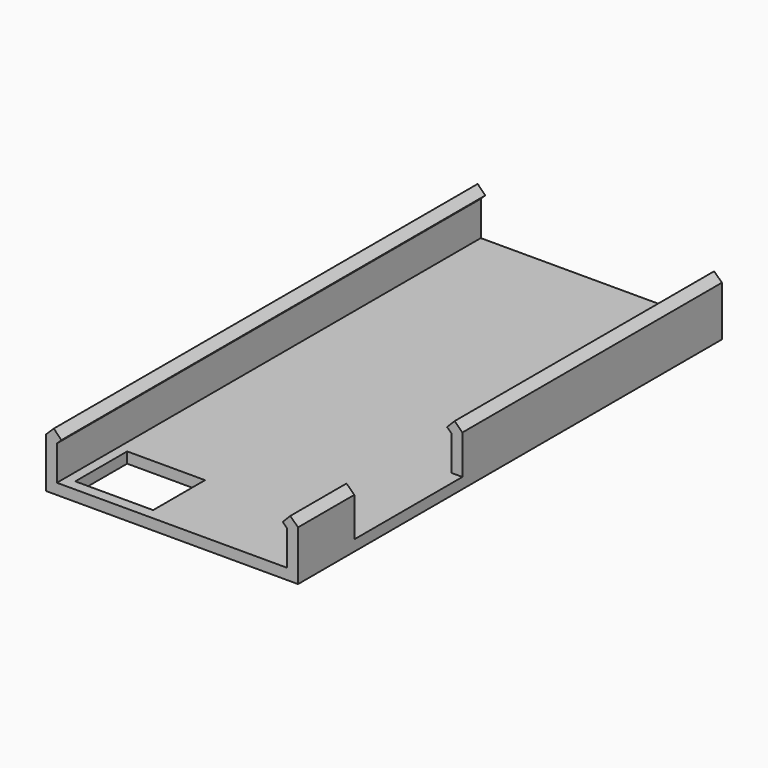
from build123d import *

# Parameters (mm, degrees)
F1_DEPTH = 124.46
F2_W     = 31.75
F2_H     = 24.671034
F3_DEPTH = 8.636
F4_W     = 18.288
F4_H     = 15.24
F5_DEPTH = 2.541


with BuildPart() as f1:
    # F0 (on Front) → F1 (new body)
    with BuildSketch(Plane.XZ):
        Polygon((-29.591, 0), (0, 0), (29.591, 0), (29.591, 11.738517), (27.772915, 13.512261), (25.999171, 11.694176), (27.051, 10.668), (27.051, 2.54), (0, 2.54), (-27.051, 2.54), (-27.051, 10.668), (-25.999171, 11.694176), (-27.772915, 13.512261), (-29.591, 11.738517), align=None)
    extrude(amount=F1_DEPTH)

    # F2 (on face) → F3 (cut)
    with BuildSketch(Plane.YZ.offset(29.591)):
        with Locations((-92.075, 14.875517)):
            Rectangle(F2_W, F2_H)
    extrude(amount=-F3_DEPTH, mode=Mode.SUBTRACT)

    # F4 (on face) → F5 (cut, through all)
    with BuildSketch(Plane.XY.offset(2.54)):
        with Locations((-15.621, -114.3)):
            Rectangle(F4_W, F4_H)
    extrude(amount=-F5_DEPTH, mode=Mode.SUBTRACT)


solid = f1.part
